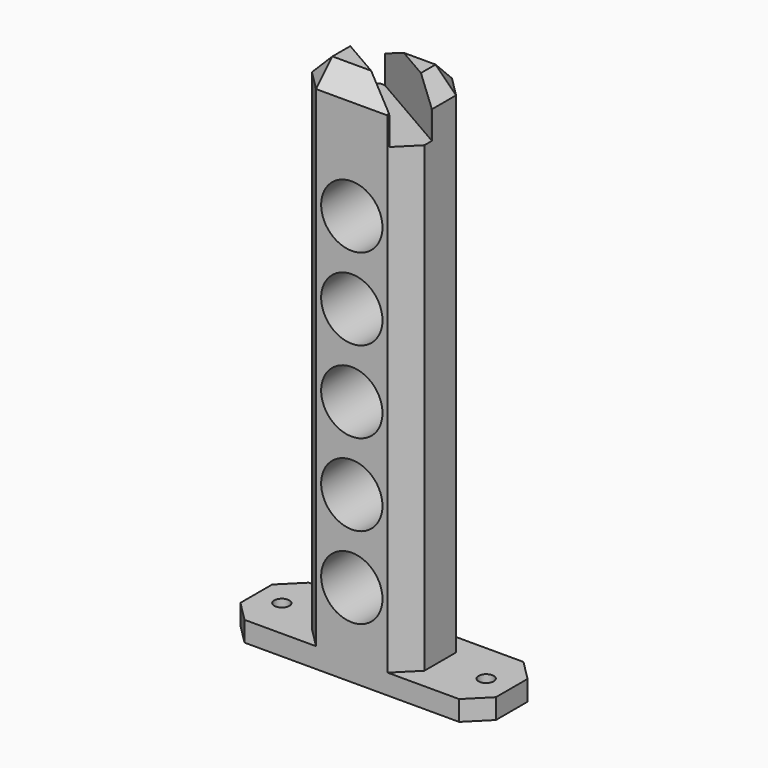
from build123d import *

# Parameters (mm, degrees)
F0_W     = 63.5
F0_H     = 20
F0_R     = 1.875
F1_DEPTH = 5
F2_W     = 27.94
F2_H     = 20
F3_DEPTH = 127
F4_R     = 7.62
F5_DEPTH = 25.4
F6_SIZE  = 5.08
F8_DEPTH = 12


with BuildPart() as f1:
    # F0 (on Top) → F1 (new body)
    with BuildSketch(Plane.XY):
        Rectangle(F0_W, F0_H)
        with Locations((-25.4, 0)):
            Circle(F0_R, mode=Mode.SUBTRACT)
        with Locations((25.4, 0)):
            Circle(F0_R, mode=Mode.SUBTRACT)
    extrude(amount=F1_DEPTH)

    # F2 (on face) → F3 (join)
    with BuildSketch(Plane.XY.offset(5)):
        Rectangle(F2_W, F2_H)
    extrude(amount=F3_DEPTH)

    # F4 (on face) → F5 (cut)
    with BuildSketch(Plane.XZ.offset(10)):
        with Locations((0, 102.0142971116)):
            Circle(F4_R)
        with Locations((0, 81.6942971116)):
            Circle(F4_R)
        with Locations((0, 61.3742971116)):
            Circle(F4_R)
        with Locations((0, 41.0542971116)):
            Circle(F4_R)
        with Locations((0, 20.7342971116)):
            Circle(F4_R)
    extrude(amount=-F5_DEPTH, mode=Mode.SUBTRACT)

    # F6
    f6_edges = [f1.edges().sort_by_distance(p)[0] for p in [
        (-13.97, -10, 68.5),
        (13.97, -10, 68.5),
        (13.97, 10, 68.5),
        (-13.97, 10, 68.5),
        (-13.97, 0, 132),
        (0, -10, 132),
        (13.97, 0, 132),
        (0, 10, 132),
        (-31.75, -10, 2.5),
        (31.75, 10, 2.5),
        (31.75, -10, 2.5),
        (-31.75, 10, 2.5),
    ]]
    chamfer(f6_edges, length=F6_SIZE)

    # F7 (on face) → F8 (cut)
    with BuildSketch(Plane.XY.offset(132)):
        with BuildLine():
            ThreePointArc((9.1241109486, -9.7629955106), (15.03217082, -8.1799356392), (13.4491109486, -2.2718757679))
            Line((13.4491109486, -2.2718757679), (-10.0027512471, 11.2680631838))
            ThreePointArc((-10.0027512471, 11.2680631838), (-15.9108111184, 9.6850033125), (-14.3277512471, 3.7769434411))
            Line((-14.3277512471, 3.7769434411), (9.1241109486, -9.7629955106))
        make_face()
    extrude(amount=-F8_DEPTH, mode=Mode.SUBTRACT)


solid = f1.part
